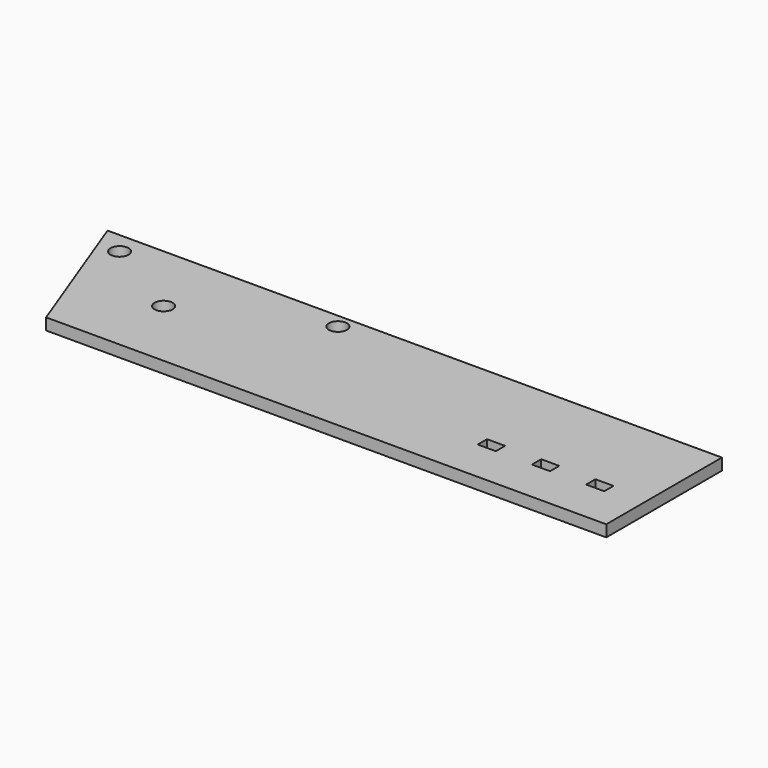
from build123d import *

# Parameters (mm, degrees)
F0_W     = 5
F0_H     = 3.2
F0_R     = 2.5
F1_DEPTH = 3.2


with BuildPart() as f1:
    # F0 (on Top) → F1 (new body)
    with BuildSketch(Plane.XY):
        Polygon((-70, -20), (85, -20), (85, 20), (-85, 20), align=None)
        with Locations((42.5, -6.6)):
            Rectangle(F0_W, F0_H, mode=Mode.SUBTRACT)
        with Locations((57.5, -6.6)):
            Rectangle(F0_W, F0_H, mode=Mode.SUBTRACT)
        with Locations((72.5, -6.6)):
            Rectangle(F0_W, F0_H, mode=Mode.SUBTRACT)
        with Locations((-53.469989, 0)):
            Circle(F0_R, mode=Mode.SUBTRACT)
        with Locations((-76.875997, 14)):
            Circle(F0_R, mode=Mode.SUBTRACT)
        with Locations((-18.082369, 16.03566)):
            Circle(F0_R, mode=Mode.SUBTRACT)
    extrude(amount=F1_DEPTH)


solid = f1.part
